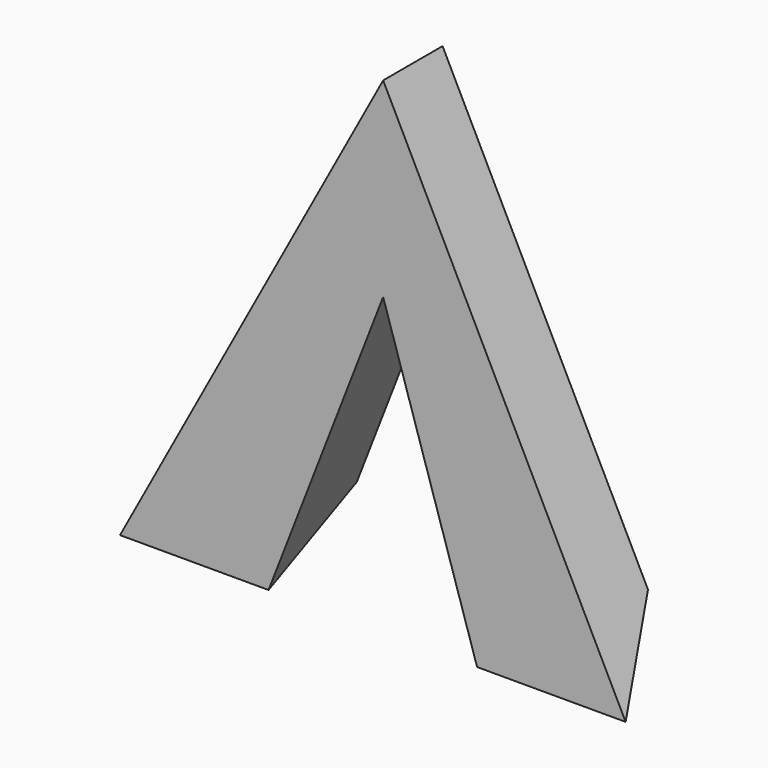
from build123d import *

# Parameters (mm, degrees)
F1_DEPTH = 30
F3_DEPTH = 174


with BuildPart() as f1:
    # F0 (on Front) → F1 (new body)
    with BuildSketch(Plane.XZ):
        Polygon((0, 77.016674), (-106.29164, -119.275236), (-46.29164, -119.275236), (0, 0), (37.95072, -119.275236), (97.95072, -119.275236), align=None)
    extrude(amount=F1_DEPTH)

    # F2 (on Right) → F3 (cut, symmetric)
    with BuildSketch(Plane.YZ):
        Polygon((0.555801, -88.719435), (-30, -119.275236), (-30, -121.189907), (0.555801, -121.189907), align=None)
    extrude(amount=F3_DEPTH, both=True, mode=Mode.SUBTRACT)


solid = f1.part
